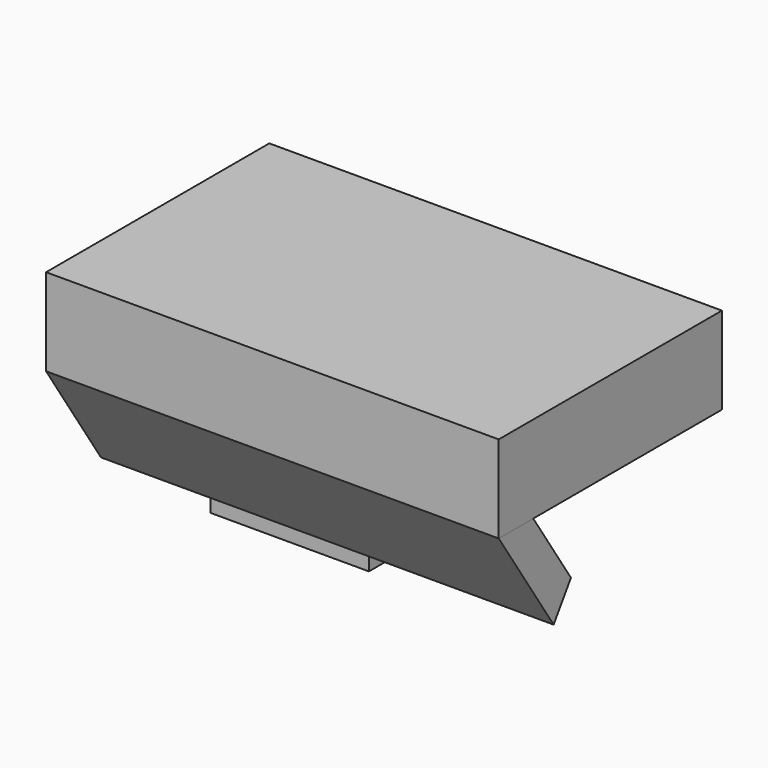
from build123d import *

# Parameters (mm, degrees)
F0_W     = 46.14431
F0_H     = 41.762779
F1_DEPTH = 25.4
F2_W     = 131.828246
F2_H     = 81.252629
F3_DEPTH = 25.4
F5_DEPTH = 131.828247


with BuildPart() as f1:
    # F0 (on Front) → F1 (new body)
    with BuildSketch(Plane.XZ):
        with Locations((-82.183374, -27.293729)):
            Rectangle(F0_W, F0_H)
    extrude(amount=F1_DEPTH)


with BuildPart() as f3:
    # F2 (on face) → F3 (new body)
    with BuildSketch(Plane.XY.offset(-6.41234)):
        with Locations((-61.998696, -16.296516)):
            Rectangle(F2_W, F2_H)
    extrude(amount=F3_DEPTH)

    # F4 (on face) → F5 (join, through all)
    with BuildSketch(Plane(origin=(-127.912819, 0, 0), x_dir=(0, -1, 0), z_dir=(-1, 0, 0))):
        Polygon((36.934078, -36.635127), (56.922831, -6.41234), (44.357165, -6.41234), (30.626236, -27.173363), align=None)
    extrude(amount=-F5_DEPTH)


solid = Compound([f1.part, f3.part])
